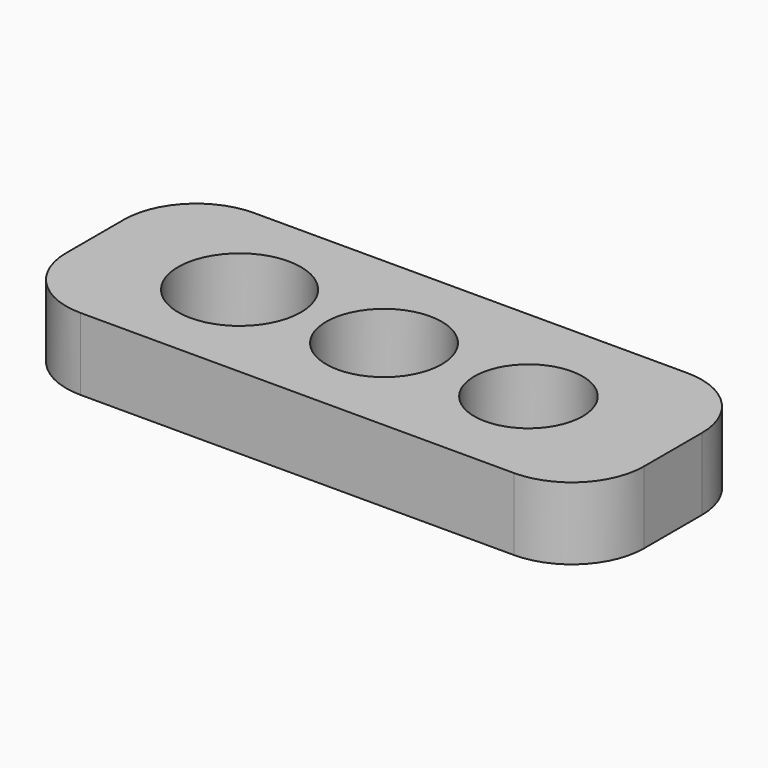
from build123d import *

# Parameters (mm, degrees)
F0_W     = 40
F0_H     = 15
F0_R     = 4.25
F0_R_2   = 4
F0_R_3   = 3.75
F1_DEPTH = 5
F2_R     = 5


with BuildPart() as f1:
    # F0 (on Top) → F1 (new body)
    with BuildSketch(Plane.XY):
        Rectangle(F0_W, F0_H)
        with Locations((-10, 0)):
            Circle(F0_R, mode=Mode.SUBTRACT)
        Circle(F0_R_2, mode=Mode.SUBTRACT)
        with Locations((10, 0)):
            Circle(F0_R_3, mode=Mode.SUBTRACT)
    extrude(amount=F1_DEPTH)

    # F2
    f2_edges = [f1.edges().sort_by_distance(p)[0] for p in [
        (-20, 7.5, 2.5),
        (-20, -7.5, 2.5),
        (20, 7.5, 2.5),
        (20, -7.5, 2.5),
    ]]
    fillet(f2_edges, radius=F2_R)


solid = f1.part
